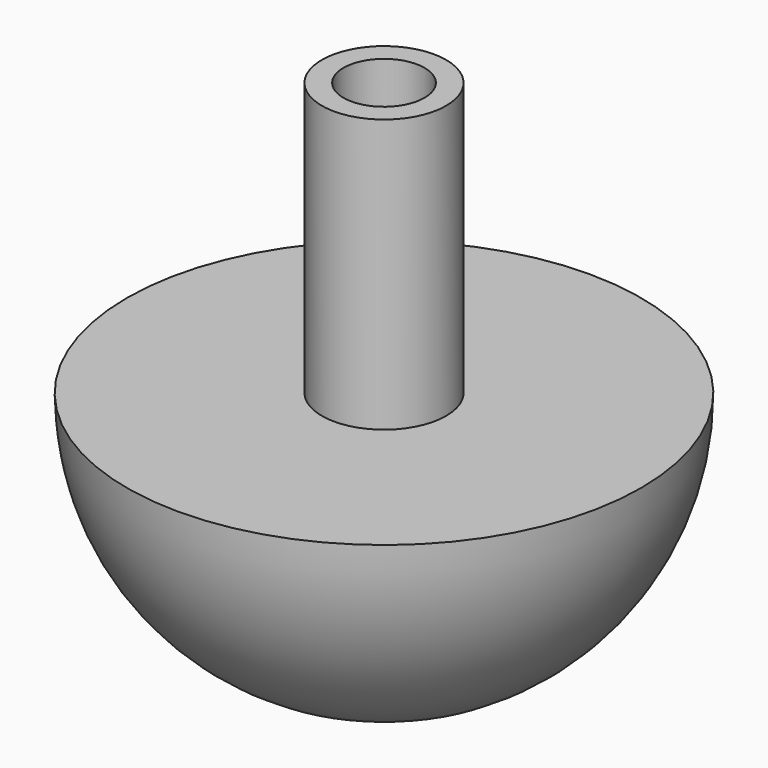
from build123d import *

# Parameters (mm, degrees)
F2_R     = 4.7625
F3_DEPTH = 9.525
F4_R     = 1.5875
F5_DEPTH = 21.844


with BuildPart() as f1:
    # F0 (on Front) → F1 (revolve)
    with BuildSketch(Plane.XZ):
        with BuildLine():
            Line((0, 62.27351), (0, 0))
            ThreePointArc((0, 0), (21.359254, 8.847293), (30.206546, 30.206546))
            Line((30.206546, 30.206546), (7.299625, 30.206546))
            Line((7.299625, 30.206546), (7.299625, 62.27351))
            Line((7.299625, 62.27351), (0, 62.27351))
        make_face()
    revolve(axis=Axis((0, 0, 31.136755), (0, 0, -1)))

    # F2 (on face) → F3 (cut)
    with BuildSketch(Plane.XY.offset(62.27351)):
        Circle(F2_R)
    extrude(amount=-F3_DEPTH, mode=Mode.SUBTRACT)

    # F4 (on Top) → F5 (cut)
    with BuildSketch(Plane.XY):
        Circle(F4_R)
    extrude(amount=F5_DEPTH, mode=Mode.SUBTRACT)


solid = f1.part
